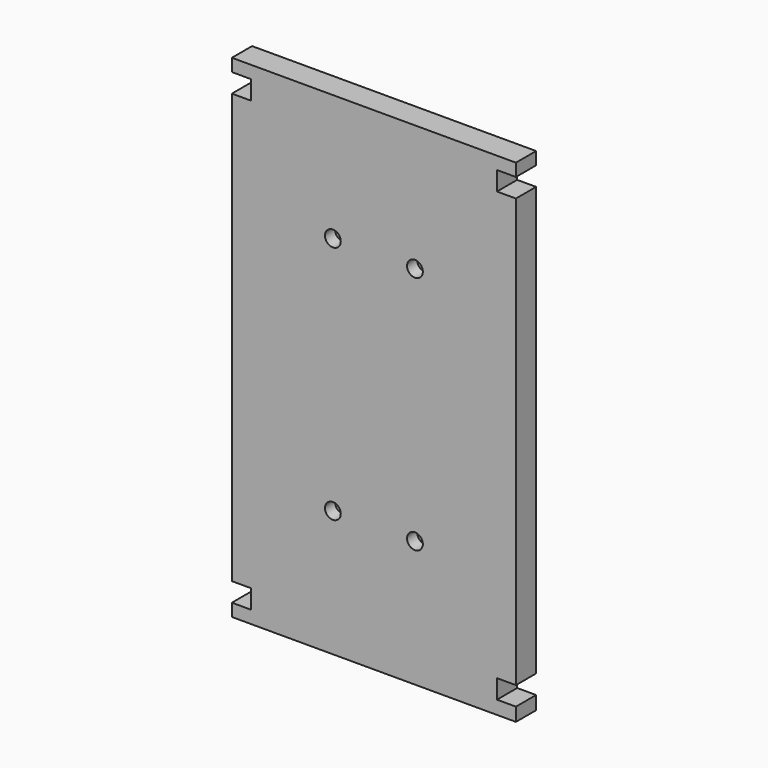
from build123d import *

# Parameters (mm, degrees)
F0_W      = 71.4375
F0_H      = 123.825
F1_DEPTH  = 6.35
F2_W      = 6.35
F2_H      = 4.7625
F3_DEPTH  = 4.7625
F4_W      = 6.35
F4_H      = 4.7625
F5_DEPTH  = 4.7625
F6_W      = 6.35
F6_H      = 4.7625
F7_DEPTH  = 4.7625
F8_W      = 6.35
F8_H      = 4.7625
F9_DEPTH  = 4.7625
F10_R     = 1.984375
F11_DEPTH = 3.175


with BuildPart() as f1:
    # F0 (on Front) → F1 (new body)
    with BuildSketch(Plane.XZ):
        with Locations((1.604452, 25.450979)):
            Rectangle(F0_W, F0_H)
    extrude(amount=F1_DEPTH)

    # F2 (on face) → F3 (cut)
    with BuildSketch(Plane.YZ.offset(37.323202)):
        with Locations((-3.175, 81.807229)):
            Rectangle(F2_W, F2_H)
    extrude(amount=-F3_DEPTH, mode=Mode.SUBTRACT)

    # F4 (on face) → F5 (cut)
    with BuildSketch(Plane.YZ.offset(37.323202)):
        with Locations((-3.175, -30.70041)):
            Rectangle(F4_W, F4_H)
    extrude(amount=-F5_DEPTH, mode=Mode.SUBTRACT)

    # F6 (on face) → F7 (cut)
    with BuildSketch(Plane(origin=(-34.114298, 0, 0), x_dir=(0, -1, 0), z_dir=(-1, 0, 0))):
        with Locations((3.175, 81.807229)):
            Rectangle(F6_W, F6_H)
    extrude(amount=-F7_DEPTH, mode=Mode.SUBTRACT)

    # F8 (on face) → F9 (cut)
    with BuildSketch(Plane(origin=(-34.114298, 0, 0), x_dir=(0, -1, 0), z_dir=(-1, 0, 0))):
        with Locations((3.175, -30.905271)):
            Rectangle(F8_W, F8_H)
    extrude(amount=-F9_DEPTH, mode=Mode.SUBTRACT)

    # F10 (on face) → F11 (cut)
    with BuildSketch(Plane.XZ.offset(6.35)):
        with Locations((-8.714298, 55.613479)):
            Circle(F10_R)
        with Locations((11.923202, 55.613479)):
            Circle(F10_R)
        with Locations((-8.714298, -4.711521)):
            Circle(F10_R)
        with Locations((11.923202, -4.711521)):
            Circle(F10_R)
    extrude(amount=-F11_DEPTH, mode=Mode.SUBTRACT)


solid = f1.part
